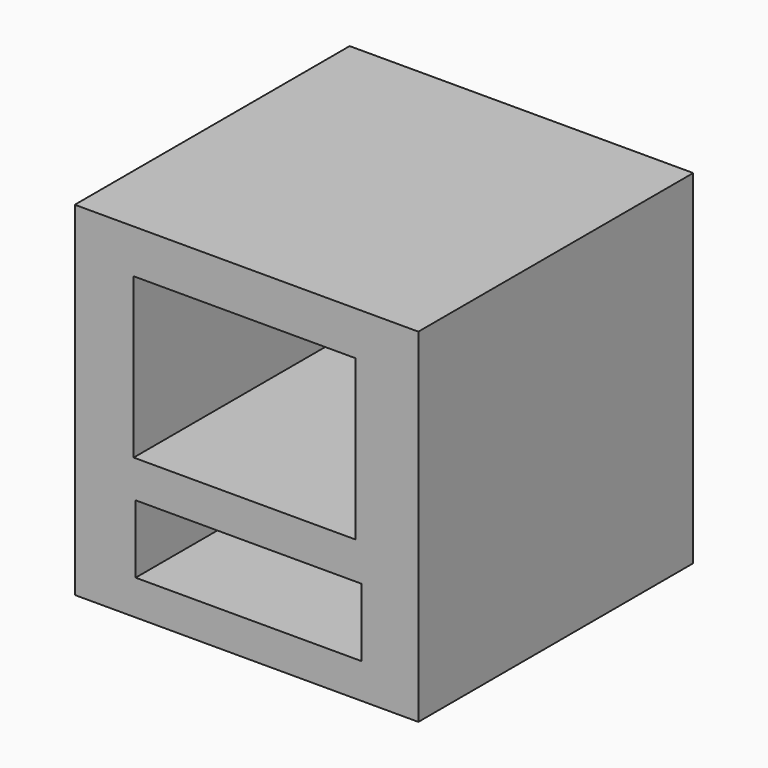
from build123d import *

# Parameters (mm, degrees)
F0_W     = 50.8
F0_H     = 50.8
F1_DEPTH = 50.8
F2_W     = 32.809857
F2_H     = 23.600072
F2_W_2   = 33.385469
F2_H_2   = 10.073202
F3_DEPTH = 43.18


with BuildPart() as f1:
    # F0 (on Top) → F1 (new body)
    with BuildSketch(Plane.XY):
        Rectangle(F0_W, F0_H)
    extrude(amount=F1_DEPTH)

    # F2 (on face) → F3 (cut)
    with BuildSketch(Plane.XZ.offset(25.4)):
        with Locations((-0.287805, 32.522049)):
            Rectangle(F2_W, F2_H)
        with Locations((0.287805, 10.217104)):
            Rectangle(F2_W_2, F2_H_2)
    extrude(amount=-F3_DEPTH, mode=Mode.SUBTRACT)


solid = f1.part
